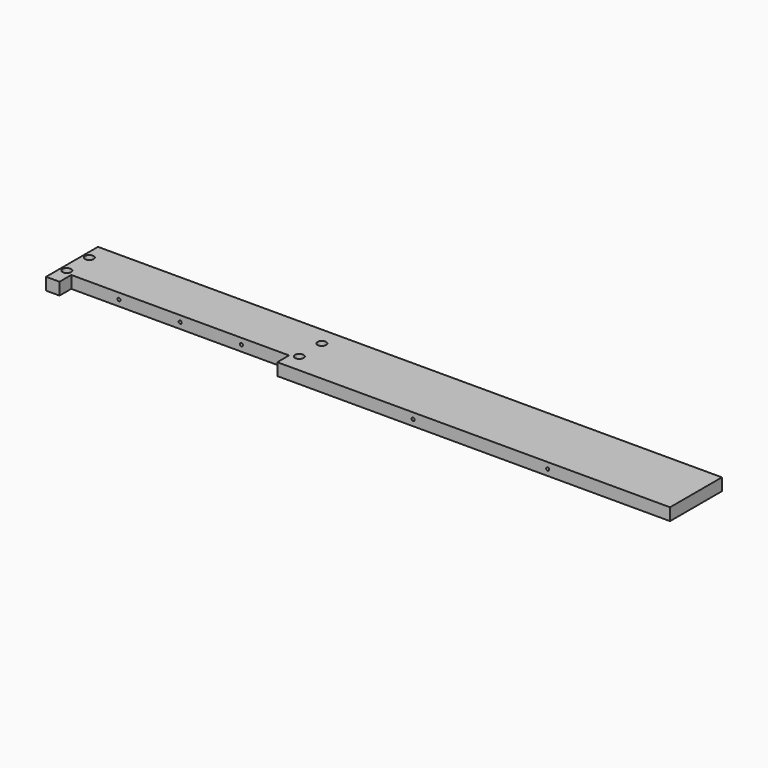
from build123d import *

# Parameters (mm, degrees)
F0_W           = 10
F0_H           = 53
F0_W_2         = 310
F1_DEPTH       = 10
F3_D           = 3.5
F3_CBORE_D     = 7
F3_CBORE_DEPTH = 5
F4_R           = 1.25
F5_DEPTH       = 53


with BuildPart() as f1:
    # F0 (on Top) → F1 (new body)
    with BuildSketch(Plane.XY):
        with Locations((-224.1861552, -33.3002303571)):
            Rectangle(F0_W, F0_H)
        Polygon((-39.1861552, -6.8002303571), (-219.1861552, -6.8002303571), (-219.1861552, -59.8002303571), (-218.1861552, -59.8002303571), (-218.1861552, -47.8002303571), (-40.1861552, -47.8002303571), (-40.1861552, -59.8002303571), (-39.1861552, -59.8002303571), align=None)
        with Locations((-34.1861552, -33.3002303571)):
            Rectangle(F0_W, F0_H)
        with Locations((125.8138448, -33.3002303571)):
            Rectangle(F0_W_2, F0_H)
        Polygon((-39.1861552, -6.8002303571), (-219.1861552, -6.8002303571), (-219.1861552, -59.8002303571), (-218.1861552, -59.8002303571), (-218.1861552, -47.8002303571), (-40.1861552, -47.8002303571), (-40.1861552, -59.8002303571), (-39.1861552, -59.8002303571), align=None)
    extrude(amount=F1_DEPTH)

    # F3 (through all)
    with Locations(Plane.XY.offset(10)):
        with Locations((-224.1861552, -21.8002303571), (-224.1861552, -44.8002303571), (-34.1861620545, -21.8002303571), (-34.1861620545, -44.8002303571)):
            CounterBoreHole(F3_D / 2, F3_CBORE_D / 2, F3_CBORE_DEPTH)

    # F4 (on face) → F5 (cut, through all)
    with BuildSketch(Plane(origin=(0, -6.8002303571, 0), x_dir=(-1, 0, 0), z_dir=(0, 1, 0))):
        with Locations((-180.8138448, 5)):
            Circle(F4_R)
        with Locations((-70.8138448, 5)):
            Circle(F4_R)
        with Locations((79.1861552, 5)):
            Circle(F4_R)
        with Locations((129.1861552, 5)):
            Circle(F4_R)
        with Locations((179.1861552, 5)):
            Circle(F4_R)
    extrude(amount=-F5_DEPTH, mode=Mode.SUBTRACT)


solid = f1.part
